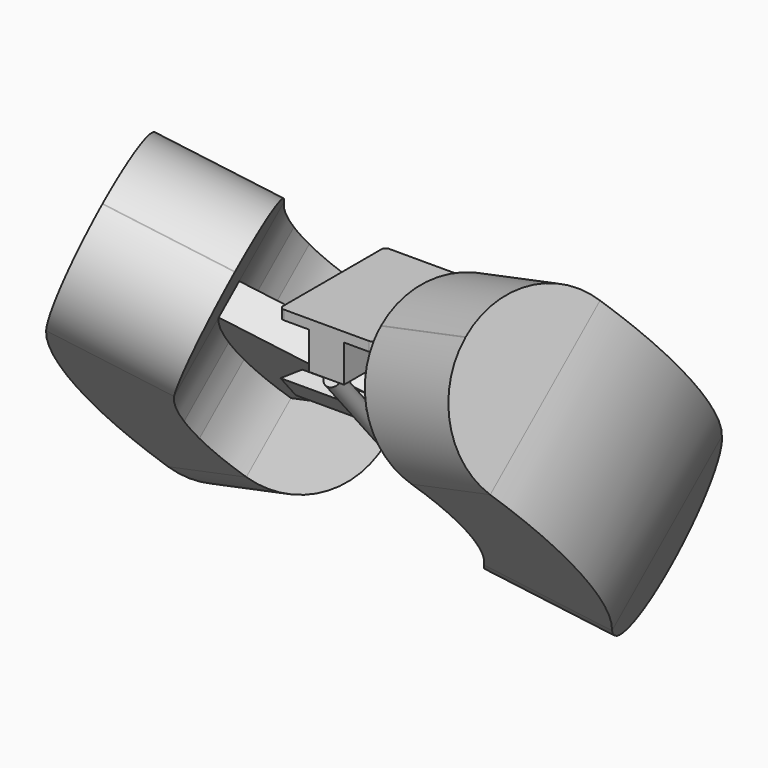
from build123d import *

# Parameters (mm, degrees)
F1_DEPTH  = 5.6388
F2_W      = 20.9776489064
F2_H      = 29.2036490902
F3_DEPTH  = 22.225
F7_R      = 4.7371
F8_DEPTH  = 69.85
F11_DEPTH = 17.78
F13_DEPTH = 20.0152
F14_DEPTH = 63.5254
F15_DEPTH = 43.4975
F16_R     = 53.34


with BuildPart() as f1:
    # F0 (on Top) → F1 (new body)
    with BuildSketch(Plane.XY):
        with BuildLine():
            Line((25.4, 39.2684), (-25.4, 39.2684))
            ThreePointArc((-25.4, 39.2684), (-27.1960512242, 38.5244512242), (-27.94, 36.7284))
            Line((-27.94, 36.7284), (-27.94, -36.7284))
            ThreePointArc((-27.94, -36.7284), (-27.1960512242, -38.5244512242), (-25.4, -39.2684))
            Line((-25.4, -39.2684), (25.4, -39.2684))
            ThreePointArc((25.4, -39.2684), (27.1960512242, -38.5244512242), (27.94, -36.7284))
            Line((27.94, -36.7284), (27.94, 36.7284))
            ThreePointArc((27.94, 36.7284), (27.1960512242, 38.5244512242), (25.4, 39.2684))
        make_face()
    extrude(amount=F1_DEPTH)

    # F2 (on face) → F3 (join)
    with BuildSketch(Plane(origin=(0, 0, 0), x_dir=(1, 0, 0), z_dir=(0, 0, -1))):
        with Locations((0, 24.6665754549)):
            Rectangle(F2_W, F2_H)
    extrude(amount=F3_DEPTH)

    # F7 (on line) → F8 (join, through all)
    with BuildSketch(Plane(origin=(0, -2.3976337649, 2.857388653), x_dir=(1, 0, 0), z_dir=(0, 0.6427876097, -0.7660444431))):
        with Locations((0, 42.0348158555)):
            Circle(F7_R)
    extrude(amount=F8_DEPTH)

    # F10 (on line) → F11 (join, through all)
    with BuildSketch(Plane(origin=(0, 16.7047284198, -19.9079201076), x_dir=(1, 0, 0), z_dir=(0, 0.6427876097, -0.7660444431))):
        Polygon((-91.9988, 34.4656158555), (-91.9988, 14.4504158555), (91.9988, 14.4504158555), (91.9988, 34.4656158555), (38.1, 34.4656158555), (-38.1, 34.4656158555), align=None)
        Polygon((-46.4673688353, 42.0348158555), (-38.1, 34.4656158555), (38.1, 34.4656158555), (46.4673688353, 42.0348158555), align=None)
    extrude(amount=F11_DEPTH)

    # F12 (on face) → F13 (join, through all)
    with BuildSketch(Plane(origin=(0, -11.0696607669, -9.2885482667), x_dir=(-1, 0, 0), z_dir=(0, 0.7660444431, 0.6427876097))):
        with BuildLine():
            Line((0, -25.9879440239), (-70.9840396525, 7.1124572728))
            ThreePointArc((-70.9840396525, 7.1124572728), (-78.2586935363, -8.8490260203), (-81.9932654944, -25.9879440239))
            Line((-81.9932654944, -25.9879440239), (0, -25.9879440239))
        make_face()
        with BuildLine():
            Line((-70.9840396525, 7.1124572728), (-80.0436609406, 11.3370280594))
            ThreePointArc((-80.0436609406, 11.3370280594), (-88.0223862258, -6.6844904476), (-91.9988, -25.9879440239))
            Line((-91.9988, -25.9879440239), (-81.9932654944, -25.9879440239))
            ThreePointArc((-81.9932654944, -25.9879440239), (-78.2586935363, -8.8490260203), (-70.9840396525, 7.1124572728))
        make_face()
        with BuildLine():
            Line((0, -43.7679440239), (-81.9932654944, -43.7679440239))
            ThreePointArc((-81.9932654944, -43.7679440239), (-78.2586935363, -60.9068620275), (-70.9840396525, -76.8683453206))
            Line((-70.9840396525, -76.8683453206), (0, -43.7679440239))
        make_face()
        with BuildLine():
            Line((-81.9932654944, -43.7679440239), (-91.9988, -43.7679440239))
            ThreePointArc((-91.9988, -43.7679440239), (-88.0223862258, -63.0713976002), (-80.0436609406, -81.0929161073))
            Line((-80.0436609406, -81.0929161073), (-70.9840396525, -76.8683453206))
            ThreePointArc((-70.9840396525, -76.8683453206), (-78.2586935363, -60.9068620275), (-81.9932654944, -43.7679440239))
        make_face()
        with BuildLine():
            Line((70.9840396525, 7.1124572728), (0, -25.9879440239))
            Line((0, -25.9879440239), (81.9932654944, -25.9879440239))
            ThreePointArc((81.9932654944, -25.9879440239), (78.2586935363, -8.8490260203), (70.9840396525, 7.1124572728))
        make_face()
        with BuildLine():
            Line((80.0436609406, 11.3370280594), (70.9840396525, 7.1124572728))
            ThreePointArc((70.9840396525, 7.1124572728), (78.2586935363, -8.8490260203), (81.9932654944, -25.9879440239))
            Line((81.9932654944, -25.9879440239), (91.9988, -25.9879440239))
            ThreePointArc((91.9988, -25.9879440239), (88.0223862258, -6.6844904476), (80.0436609406, 11.3370280594))
        make_face()
        with BuildLine():
            Line((81.9932654944, -43.7679440239), (0, -43.7679440239))
            Line((0, -43.7679440239), (70.9840396525, -76.8683453206))
            ThreePointArc((70.9840396525, -76.8683453206), (78.2586935363, -60.9068620275), (81.9932654944, -43.7679440239))
        make_face()
        with BuildLine():
            Line((91.9988, -43.7679440239), (81.9932654944, -43.7679440239))
            ThreePointArc((81.9932654944, -43.7679440239), (78.2586935363, -60.9068620275), (70.9840396525, -76.8683453206))
            Line((70.9840396525, -76.8683453206), (80.0436609406, -81.0929161073))
            ThreePointArc((80.0436609406, -81.0929161073), (88.0223862258, -63.0713976002), (91.9988, -43.7679440239))
        make_face()
    extrude(amount=-F13_DEPTH)

    # F12 (on face) → F14 (join)
    with BuildSketch(Plane(origin=(0, -11.0696607669, -9.2885482667), x_dir=(-1, 0, 0), z_dir=(0, 0.7660444431, 0.6427876097))):
        with BuildLine():
            ThreePointArc((-91.9988, -25.9879440239), (-88.0223862258, -6.6844904476), (-80.0436609406, 11.3370280594))
            Line((-80.0436609406, 11.3370280594), (-70.9840396525, 7.1124572728))
            Line((-70.9840396525, 7.1124572728), (-43.6312133895, 53.3519321074))
            Line((-43.6312133895, 53.3519321074), (-110.0278799202, 84.3132061866))
            Line((-110.0278799202, 84.3132061866), (-132.6240105207, 35.8556477371))
            ThreePointArc((-132.6240105207, 35.8556477371), (-150.307581878, -34.8779440239), (-132.6240105207, -105.6115357849))
            Line((-132.6240105207, -105.6115357849), (-110.0278799202, -154.0690942344))
            Line((-110.0278799202, -154.0690942344), (-43.6312133895, -123.1078201552))
            Line((-43.6312133895, -123.1078201552), (-70.9840396525, -76.8683453206))
            Line((-70.9840396525, -76.8683453206), (-80.0436609406, -81.0929161073))
            ThreePointArc((-80.0436609406, -81.0929161073), (-88.0223862258, -63.0713976002), (-91.9988, -43.7679440239))
            ThreePointArc((-91.9988, -43.7679440239), (-92.4273298405, -34.8779440239), (-91.9988, -25.9879440239))
        make_face()
        with BuildLine():
            Line((43.6312133895, 53.3519321074), (70.9840396525, 7.1124572728))
            Line((70.9840396525, 7.1124572728), (80.0436609406, 11.3370280594))
            ThreePointArc((80.0436609406, 11.3370280594), (88.0223862258, -6.6844904476), (91.9988, -25.9879440239))
            ThreePointArc((91.9988, -25.9879440239), (92.4273298405, -34.8779440239), (91.9988, -43.7679440239))
            ThreePointArc((91.9988, -43.7679440239), (88.0223862258, -63.0713976002), (80.0436609406, -81.0929161073))
            Line((80.0436609406, -81.0929161073), (70.9840396525, -76.8683453206))
            Line((70.9840396525, -76.8683453206), (43.6312133895, -123.1078201552))
            Line((43.6312133895, -123.1078201552), (107.4266247432, -152.8561090246))
            Line((107.4266247432, -152.8561090246), (132.6240105207, -105.6115357849))
            ThreePointArc((132.6240105207, -105.6115357849), (150.307581878, -34.8779440239), (132.6240105207, 35.8556477371))
            Line((132.6240105207, 35.8556477371), (107.4266247432, 83.1002209767))
            Line((107.4266247432, 83.1002209767), (43.6312133895, 53.3519321074))
        make_face()
        with BuildLine():
            Line((-70.9840396525, 7.1124572728), (-80.0436609406, 11.3370280594))
            ThreePointArc((-80.0436609406, 11.3370280594), (-88.0223862258, -6.6844904476), (-91.9988, -25.9879440239))
            Line((-91.9988, -25.9879440239), (-81.9932654944, -25.9879440239))
            ThreePointArc((-81.9932654944, -25.9879440239), (-78.2586935363, -8.8490260203), (-70.9840396525, 7.1124572728))
        make_face()
        with BuildLine():
            Line((-91.9988, -43.7679440239), (-91.9988, -25.9879440239))
            ThreePointArc((-91.9988, -25.9879440239), (-92.4273298405, -34.8779440239), (-91.9988, -43.7679440239))
        make_face()
        with BuildLine():
            Line((-81.9932654944, -43.7679440239), (-91.9988, -43.7679440239))
            ThreePointArc((-91.9988, -43.7679440239), (-88.0223862258, -63.0713976002), (-80.0436609406, -81.0929161073))
            Line((-80.0436609406, -81.0929161073), (-70.9840396525, -76.8683453206))
            ThreePointArc((-70.9840396525, -76.8683453206), (-78.2586935363, -60.9068620275), (-81.9932654944, -43.7679440239))
        make_face()
        with BuildLine():
            Line((80.0436609406, 11.3370280594), (70.9840396525, 7.1124572728))
            ThreePointArc((70.9840396525, 7.1124572728), (78.2586935363, -8.8490260203), (81.9932654944, -25.9879440239))
            Line((81.9932654944, -25.9879440239), (91.9988, -25.9879440239))
            ThreePointArc((91.9988, -25.9879440239), (88.0223862258, -6.6844904476), (80.0436609406, 11.3370280594))
        make_face()
        with BuildLine():
            Line((91.9988, -25.9879440239), (81.9932654944, -25.9879440239))
            ThreePointArc((81.9932654944, -25.9879440239), (82.4738, -34.8779440239), (81.9932654944, -43.7679440239))
            Line((81.9932654944, -43.7679440239), (91.9988, -43.7679440239))
            Line((91.9988, -43.7679440239), (91.9988, -25.9879440239))
        make_face()
        with BuildLine():
            Line((91.9988, -43.7679440239), (81.9932654944, -43.7679440239))
            ThreePointArc((81.9932654944, -43.7679440239), (78.2586935363, -60.9068620275), (70.9840396525, -76.8683453206))
            Line((70.9840396525, -76.8683453206), (80.0436609406, -81.0929161073))
            ThreePointArc((80.0436609406, -81.0929161073), (88.0223862258, -63.0713976002), (91.9988, -43.7679440239))
        make_face()
        with BuildLine():
            ThreePointArc((91.9988, -43.7679440239), (92.4273298405, -34.8779440239), (91.9988, -25.9879440239))
            Line((91.9988, -25.9879440239), (91.9988, -43.7679440239))
        make_face()
        with BuildLine():
            Line((-81.9932654944, -25.9879440239), (-91.9988, -25.9879440239))
            Line((-91.9988, -25.9879440239), (-91.9988, -43.7679440239))
            Line((-91.9988, -43.7679440239), (-81.9932654944, -43.7679440239))
            ThreePointArc((-81.9932654944, -43.7679440239), (-82.4738, -34.8779440239), (-81.9932654944, -25.9879440239))
        make_face()
    extrude(amount=-F14_DEPTH)

    # F12 (on face) → F15 (join)
    with BuildSketch(Plane(origin=(0, -11.0696607669, -9.2885482667), x_dir=(-1, 0, 0), z_dir=(0, 0.7660444431, 0.6427876097))):
        with BuildLine():
            Line((43.6312133895, 53.3519321074), (70.9840396525, 7.1124572728))
            Line((70.9840396525, 7.1124572728), (80.0436609406, 11.3370280594))
            ThreePointArc((80.0436609406, 11.3370280594), (88.0223862258, -6.6844904476), (91.9988, -25.9879440239))
            ThreePointArc((91.9988, -25.9879440239), (92.4273298405, -34.8779440239), (91.9988, -43.7679440239))
            ThreePointArc((91.9988, -43.7679440239), (88.0223862258, -63.0713976002), (80.0436609406, -81.0929161073))
            Line((80.0436609406, -81.0929161073), (70.9840396525, -76.8683453206))
            Line((70.9840396525, -76.8683453206), (43.6312133895, -123.1078201552))
            Line((43.6312133895, -123.1078201552), (107.4266247432, -152.8561090246))
            Line((107.4266247432, -152.8561090246), (132.6240105207, -105.6115357849))
            ThreePointArc((132.6240105207, -105.6115357849), (150.307581878, -34.8779440239), (132.6240105207, 35.8556477371))
            Line((132.6240105207, 35.8556477371), (107.4266247432, 83.1002209767))
            Line((107.4266247432, 83.1002209767), (43.6312133895, 53.3519321074))
        make_face()
        with BuildLine():
            ThreePointArc((-91.9988, -25.9879440239), (-88.0223862258, -6.6844904476), (-80.0436609406, 11.3370280594))
            Line((-80.0436609406, 11.3370280594), (-70.9840396525, 7.1124572728))
            Line((-70.9840396525, 7.1124572728), (-43.6312133895, 53.3519321074))
            Line((-43.6312133895, 53.3519321074), (-110.0278799202, 84.3132061866))
            Line((-110.0278799202, 84.3132061866), (-132.6240105207, 35.8556477371))
            ThreePointArc((-132.6240105207, 35.8556477371), (-150.307581878, -34.8779440239), (-132.6240105207, -105.6115357849))
            Line((-132.6240105207, -105.6115357849), (-110.0278799202, -154.0690942344))
            Line((-110.0278799202, -154.0690942344), (-43.6312133895, -123.1078201552))
            Line((-43.6312133895, -123.1078201552), (-70.9840396525, -76.8683453206))
            Line((-70.9840396525, -76.8683453206), (-80.0436609406, -81.0929161073))
            ThreePointArc((-80.0436609406, -81.0929161073), (-88.0223862258, -63.0713976002), (-91.9988, -43.7679440239))
            ThreePointArc((-91.9988, -43.7679440239), (-92.4273298405, -34.8779440239), (-91.9988, -25.9879440239))
        make_face()
        with BuildLine():
            Line((-70.9840396525, 7.1124572728), (-80.0436609406, 11.3370280594))
            ThreePointArc((-80.0436609406, 11.3370280594), (-88.0223862258, -6.6844904476), (-91.9988, -25.9879440239))
            Line((-91.9988, -25.9879440239), (-81.9932654944, -25.9879440239))
            ThreePointArc((-81.9932654944, -25.9879440239), (-78.2586935363, -8.8490260203), (-70.9840396525, 7.1124572728))
        make_face()
        with BuildLine():
            Line((-81.9932654944, -43.7679440239), (-91.9988, -43.7679440239))
            ThreePointArc((-91.9988, -43.7679440239), (-88.0223862258, -63.0713976002), (-80.0436609406, -81.0929161073))
            Line((-80.0436609406, -81.0929161073), (-70.9840396525, -76.8683453206))
            ThreePointArc((-70.9840396525, -76.8683453206), (-78.2586935363, -60.9068620275), (-81.9932654944, -43.7679440239))
        make_face()
        with BuildLine():
            Line((-91.9988, -43.7679440239), (-91.9988, -25.9879440239))
            ThreePointArc((-91.9988, -25.9879440239), (-92.4273298405, -34.8779440239), (-91.9988, -43.7679440239))
        make_face()
        with BuildLine():
            Line((80.0436609406, 11.3370280594), (70.9840396525, 7.1124572728))
            ThreePointArc((70.9840396525, 7.1124572728), (78.2586935363, -8.8490260203), (81.9932654944, -25.9879440239))
            Line((81.9932654944, -25.9879440239), (91.9988, -25.9879440239))
            ThreePointArc((91.9988, -25.9879440239), (88.0223862258, -6.6844904476), (80.0436609406, 11.3370280594))
        make_face()
        with BuildLine():
            Line((91.9988, -25.9879440239), (81.9932654944, -25.9879440239))
            ThreePointArc((81.9932654944, -25.9879440239), (82.4738, -34.8779440239), (81.9932654944, -43.7679440239))
            Line((81.9932654944, -43.7679440239), (91.9988, -43.7679440239))
            Line((91.9988, -43.7679440239), (91.9988, -25.9879440239))
        make_face()
        with BuildLine():
            Line((91.9988, -43.7679440239), (81.9932654944, -43.7679440239))
            ThreePointArc((81.9932654944, -43.7679440239), (78.2586935363, -60.9068620275), (70.9840396525, -76.8683453206))
            Line((70.9840396525, -76.8683453206), (80.0436609406, -81.0929161073))
            ThreePointArc((80.0436609406, -81.0929161073), (88.0223862258, -63.0713976002), (91.9988, -43.7679440239))
        make_face()
        with BuildLine():
            ThreePointArc((91.9988, -43.7679440239), (92.4273298405, -34.8779440239), (91.9988, -25.9879440239))
            Line((91.9988, -25.9879440239), (91.9988, -43.7679440239))
        make_face()
        with BuildLine():
            Line((-81.9932654944, -25.9879440239), (-91.9988, -25.9879440239))
            Line((-91.9988, -25.9879440239), (-91.9988, -43.7679440239))
            Line((-91.9988, -43.7679440239), (-81.9932654944, -43.7679440239))
            ThreePointArc((-81.9932654944, -43.7679440239), (-82.4738, -34.8779440239), (-81.9932654944, -25.9879440239))
        make_face()
    extrude(amount=F15_DEPTH)

    # F16
    f16_edges = [f1.edges().sort_by_distance(p)[0] for p in [
        (-75.528919, -103.587817, 2.142319),
        (-75.528919, -21.603519, 70.935313),
        (76.829547, -103.977663, 2.606919),
        (76.829547, -21.993365, 71.399913),
        (76.829547, 111.334301, -87.493812),
        (76.829547, 29.350003, -156.286806),
        (-75.528919, 110.944455, -87.029211),
        (-75.528919, 28.960157, -155.822206),
    ]]
    fillet(f16_edges, radius=F16_R)


with BuildPart() as f17_1:
    # F17: copy of F1
    add(f1.part)


solid = Compound([f1.part, f17_1.part])
